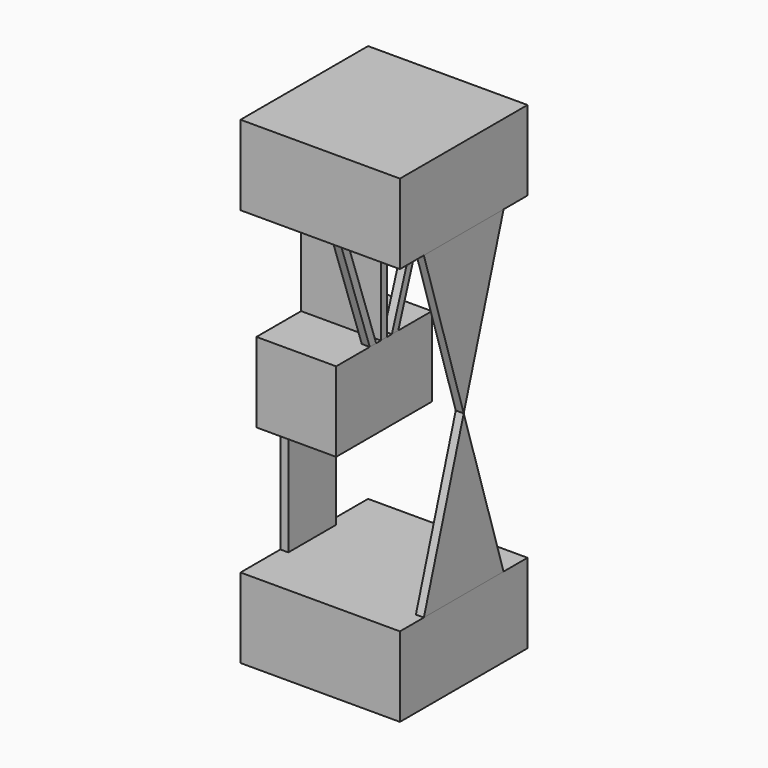
from build123d import *

# Parameters (mm, degrees)
F0_W      = 50.8
F0_H      = 50.8
F1_DEPTH  = 25.4
F2_W      = 2.54
F2_H      = 19.05
F3_DEPTH  = 38.1
F4_W      = 25.4
F4_H      = 38.1
F5_DEPTH  = 25.4
F6_W      = 2.54
F6_H      = 38.1
F7_DEPTH  = 25.4
F9_DEPTH  = 2.54
F10_W     = 50.8
F10_H     = 50.8
F11_DEPTH = 25.4
F13_DEPTH = 2.54


with BuildPart() as f1:
    # F0 (on Top) → F1 (new body)
    with BuildSketch(Plane.XY):
        Rectangle(F0_W, F0_H)
    extrude(amount=F1_DEPTH)

    # F2 (on face) → F3 (join)
    with BuildSketch(Plane.XY.offset(25.4)):
        with Locations((-24.13, 0)):
            Rectangle(F2_W, F2_H)
    extrude(amount=F3_DEPTH)

    # F4 (on face) → F5 (join)
    with BuildSketch(Plane.XY.offset(63.5)):
        with Locations((-12.7, 0)):
            Rectangle(F4_W, F4_H)
    extrude(amount=F5_DEPTH)


with BuildPart() as f7:
    # F6 (on face) → F7 (new body)
    with BuildSketch(Plane.YZ):
        with Locations((0, 107.95)):
            Rectangle(F6_W, F6_H)
    extrude(amount=-F7_DEPTH)


with BuildPart() as f9:
    # F8 (on face) → F9 (new body)
    with BuildSketch(Plane.YZ):
        Polygon((16.324653252, 127), (3.128663313, 88.9), (5.668663313, 88.9), (18.864653252, 127), align=None)
    extrude(amount=-F9_DEPTH)


with BuildPart() as f9b:
    # F8 (on face) → F9, piece 2 (new body)
    with BuildSketch(Plane.YZ):
        Polygon((-5.668663313, 88.9), (-3.128663313, 88.9), (-16.324653252, 127), (-18.864653252, 127), align=None)
    extrude(amount=-F9_DEPTH)


with BuildPart() as f11:
    # F10 (on face) → F11 (new body)
    with BuildSketch(Plane.XY.offset(127)):
        Rectangle(F10_W, F10_H)
    extrude(amount=F11_DEPTH)


with BuildPart() as f13:
    # F12 (on face) → F13 (new body)
    with BuildSketch(Plane.YZ.offset(25.4)):
        Polygon((-15.875, 127), (0, 76.2), (15.875, 127), align=None)
    extrude(amount=-F13_DEPTH)


with BuildPart() as f13b:
    # F12 (on face) → F13, piece 2 (new body)
    with BuildSketch(Plane.YZ.offset(25.4)):
        Polygon((0, 76.2), (-15.875, 25.4), (15.875, 25.4), align=None)
    extrude(amount=-F13_DEPTH)


solid = Compound([f1.part, f7.part, f9.part, f9b.part, f11.part, f13.part, f13b.part])
